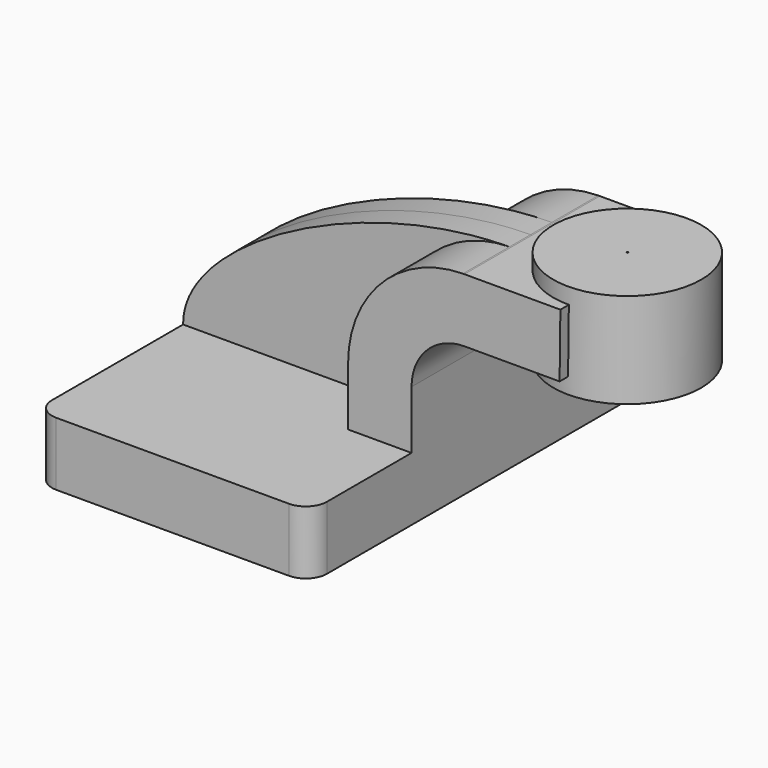
from build123d import *

# Parameters (mm, degrees)
F1_DEPTH = 63.5
F2_DEPTH = 25.4
F3_DEPTH = 7.9375
F5_R     = 6.35


with BuildPart() as f1:
    # F0 (on Front) → F1 (new body, symmetric)
    with BuildSketch(Plane.XZ):
        Polygon((-41.275, 9.525), (-41.275, -9.525), (41.275, -9.525), (41.275, 9.525), (22.225, 9.525), align=None)
    extrude(amount=F1_DEPTH, both=True)

    # F0 (on Front) → F2 (join, symmetric)
    with BuildSketch(Plane.XZ):
        with BuildLine():
            Line((22.225, 9.525), (41.275, 9.525))
            Line((41.275, 9.525), (41.275, 27.0002))
            ThreePointArc((41.275, 27.0002), (45.92468, 38.22552), (57.15, 42.8752))
            Line((57.15, 42.8752), (57.15, 61.9252))
            add(Edge.make_bspline(
                [(56.711113, 61.922442), (56.857474, 61.92365), (57.00377, 61.92457), (57.15, 61.9252)],
                knots=[111.150721, 111.150721, 111.150721, 111.150721, 111.504536, 111.504536, 111.504536, 111.504536], degree=3))
            ThreePointArc((56.711113, 61.922442), (32.29961, 51.540244), (22.225, 27.0002))
            Line((22.225, 27.0002), (22.225, 9.525))
        make_face()
        Polygon((85.957468, 61.9252), (57.15, 61.9252), (57.15, 42.8752), (85.725, 42.8752), align=None)
    extrude(amount=F2_DEPTH, both=True)

    # F0 (on Front) → F3 (join, symmetric)
    with BuildSketch(Plane.XZ):
        with BuildLine():
            add(Edge.make_bspline(
                [(-41.275, 9.525), (-41.625955, 32.723309), (10.731886, 61.543013), (56.711113, 61.922442)],
                knots=[0, 0, 0, 0, 111.150721, 111.150721, 111.150721, 111.150721], degree=3))
            Line((-41.275, 9.525), (22.225, 9.525))
            Line((22.225, 9.525), (22.225, 27.0002))
            ThreePointArc((22.225, 27.0002), (32.29961, 51.540244), (56.711113, 61.922442))
        make_face()
    extrude(amount=F3_DEPTH, both=True)

    # F0 (on Front) → F4 (revolve)
    with BuildSketch(Plane.XZ):
        Polygon((85.957468, 66.675), (85.957468, 61.9252), (85.725, 42.8752), (85.725, 38.1), (107.95, 38.1), (107.95, 66.675), align=None)
    revolve(axis=Axis((85.725, 0, 40.4876), (0, 0, 1)))

    # F5
    f5_edges = [f1.edges().sort_by_distance(p)[0] for p in [
        (-41.275, -63.5, 0),
        (41.275, -63.5, 0),
        (41.275, 63.5, 0),
        (-41.275, 63.5, 0),
    ]]
    fillet(f5_edges, radius=F5_R)


solid = f1.part
